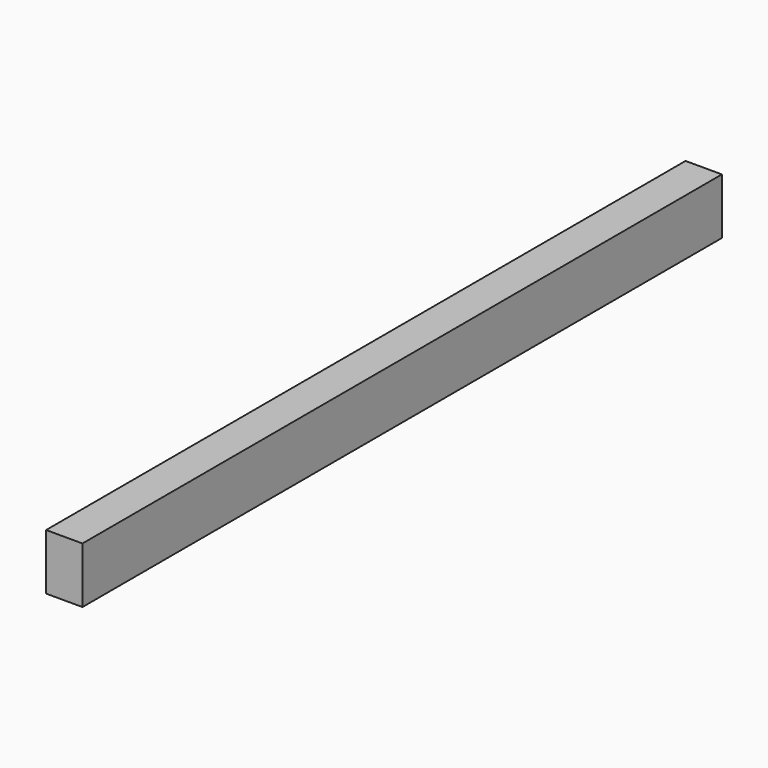
from build123d import *

# Parameters (mm, degrees)
BOX_W     = 26
BOX_H     = 571
BOX_DEPTH = 40


with BuildPart() as part:
    # Box → Box (new body)
    with BuildSketch(Plane.XY):
        with Locations((13, 285.5)):
            Rectangle(BOX_W, BOX_H)
    extrude(amount=BOX_DEPTH)


solid = part.part
